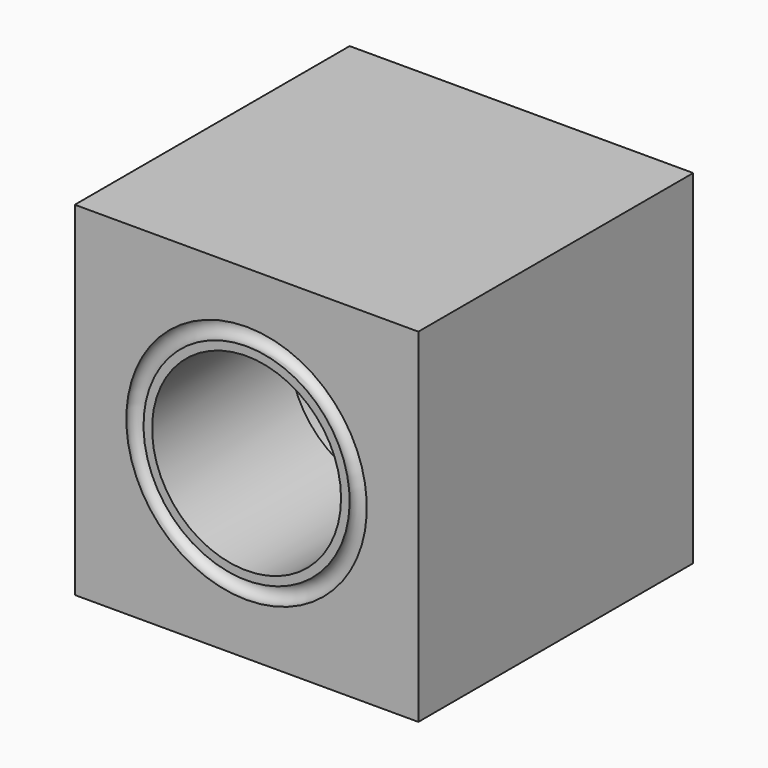
from build123d import *

# Parameters (mm, degrees)
F0_W     = 20
F0_H     = 20
F0_R     = 5.5
F1_DEPTH = 20
F5_R     = 7.5
F6_DEPTH = 10


with BuildPart() as f1:
    # F0 (on Front) → F1 (new body)
    with BuildSketch(Plane.XZ):
        with Locations((-10, 10)):
            Rectangle(F0_W, F0_H)
        with Locations((-10, 10)):
            Circle(F0_R, mode=Mode.SUBTRACT)
    extrude(amount=-F1_DEPTH)

    # F3 (on offset) → F4 (revolve, cut)
    with BuildSketch(Plane.YZ.offset(-10)):
        with BuildLine():
            ThreePointArc((0, 16), (0.7791287847, 16.5), (0, 17))
            Line((0, 17), (0, 16))
        make_face()
    revolve(axis=Axis((-10, 6.498338189, 10), (0, 1, 0)), mode=Mode.SUBTRACT)

    # F5 (on face) → F6 (cut)
    with BuildSketch(Plane(origin=(0, 20, 0), x_dir=(-1, 0, 0), z_dir=(0, 1, 0))):
        with Locations((10, 10)):
            Circle(F5_R)
    extrude(amount=-F6_DEPTH, mode=Mode.SUBTRACT)


solid = f1.part
